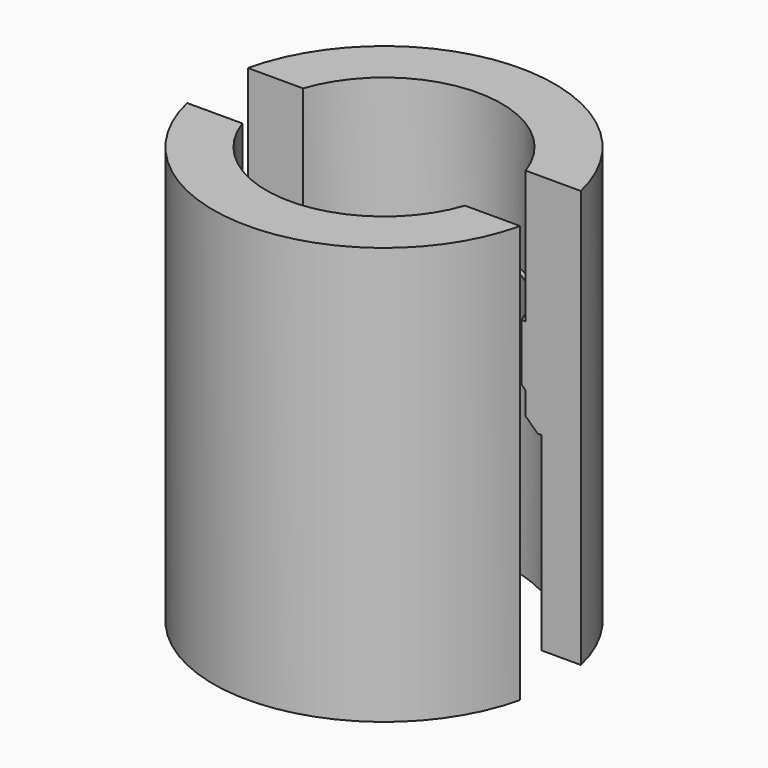
from build123d import *

# Parameters (mm, degrees)
BOX005_W          = 10
BOX005_H          = 2
BOX005_DEPTH      = 10
CYLINDER010_R     = 3
CYLINDER010_DEPTH = 2
CYLINDER011_R     = 4
CYLINDER011_DEPTH = 2
CHAMFER005_SIZE   = 0.5
BOX001_W          = 10
BOX001_H          = 2
BOX001_DEPTH      = 11
CYLINDER002_R     = 3.5
CYLINDER002_DEPTH = 5
CYLINDER001_R     = 3.1
CYLINDER001_DEPTH = 11
CYLINDER_R        = 4.5
CYLINDER_DEPTH    = 11
CHAMFER_SIZE      = 0.3


with BuildPart() as cube005:
    # Box005 → Box005 (new body)
    with BuildSketch(Plane(origin=(-5, -1, 0), x_dir=(1, 0, 0), z_dir=(0, 0, 1))):
        with Locations((5, 1)):
            Rectangle(BOX005_W, BOX005_H)
    extrude(amount=BOX005_DEPTH)


with BuildPart() as cylinder010:
    # Cylinder010 → Cylinder010 (new body)
    with BuildSketch(Plane.XY):
        Circle(CYLINDER010_R)
    extrude(amount=CYLINDER010_DEPTH)


with BuildPart() as cut015:
    # Cylinder011 → Cylinder011 (new body)
    with BuildSketch(Plane.XY):
        Circle(CYLINDER011_R)
    extrude(amount=CYLINDER011_DEPTH)

    # Cut014: cut Cylinder010
    add(cylinder010.part, mode=Mode.SUBTRACT)


with BuildPart() as cut015_1:
    # Cut014 placement: moved
    add(cut015.part.moved(Location((0, 0, 5.5))))

    # Chamfer005
    chamfer005_edges = [cut015_1.edges().sort_by_distance(p)[0] for p in [
        (-3, 0, 5.5),
    ]]
    chamfer(chamfer005_edges, length=CHAMFER005_SIZE)

    # Cut015: cut Cube005
    add(cube005.part, mode=Mode.SUBTRACT)


with BuildPart() as cube001:
    # Box001 → Box001 (new body)
    with BuildSketch(Plane(origin=(-5, -1, 0), x_dir=(1, 0, 0), z_dir=(0, 0, 1))):
        with Locations((5, 1)):
            Rectangle(BOX001_W, BOX001_H)
    extrude(amount=BOX001_DEPTH)


with BuildPart() as cylinder002:
    # Cylinder002 → Cylinder002 (new body)
    with BuildSketch(Plane.XY):
        Circle(CYLINDER002_R)
    extrude(amount=CYLINDER002_DEPTH)


with BuildPart() as cylinder001:
    # Cylinder001 → Cylinder001 (new body)
    with BuildSketch(Plane.XY):
        Circle(CYLINDER001_R)
    extrude(amount=CYLINDER001_DEPTH)


with BuildPart() as fusion002:
    # Cylinder → Cylinder (new body)
    with BuildSketch(Plane.XY):
        Circle(CYLINDER_R)
    extrude(amount=CYLINDER_DEPTH)

    # Cut007: cut Cylinder001
    add(cylinder001.part, mode=Mode.SUBTRACT)

    # Cut008: cut Cylinder002
    add(cylinder002.part, mode=Mode.SUBTRACT)

    # Chamfer
    chamfer_edges = [fusion002.edges().sort_by_distance(p)[0] for p in [
        (-3.1, 0, 5),
    ]]
    chamfer(chamfer_edges, length=CHAMFER_SIZE)

    # Cut009: cut Cube001
    add(cube001.part, mode=Mode.SUBTRACT)

    # Fusion002: union Cut015
    add(cut015_1.part)


solid = fusion002.part
